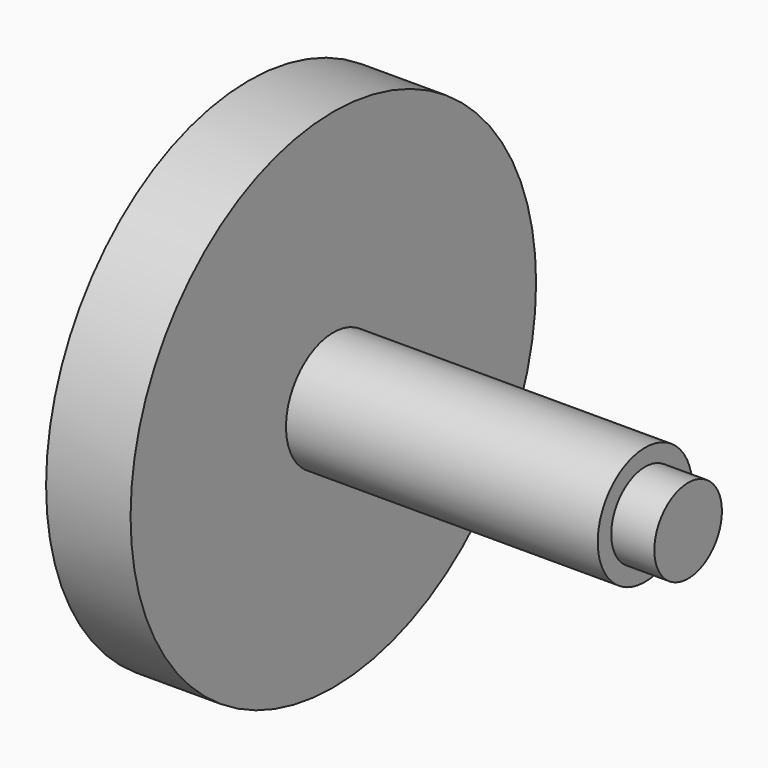
from build123d import *

# Parameters (mm, degrees)
F0_W   = 5
F0_H   = 11.5
F0_W_2 = 1.45
F0_H_2 = 1
F0_H_3 = 2.5
F0_W_3 = 2.55
F0_W_4 = 18.45


with BuildPart() as f1:
    # F0 (on Top) → F1 (revolve)
    with BuildSketch(Plane.XY):
        with Locations((-8.5, 9.25)):
            Rectangle(F0_W, F0_H)
        with Locations((-11.725, 3)):
            Rectangle(F0_W_2, F0_H_2)
        with Locations((-11.725, 1.25)):
            Rectangle(F0_W_2, F0_H_3)
        with Locations((-13.725, 1.25)):
            Rectangle(F0_W_3, F0_H_3)
        with Locations((-8.5, 1.25)):
            Rectangle(F0_W, F0_H_3)
        with Locations((-8.5, 3)):
            Rectangle(F0_W, F0_H_2)
        with Locations((3.225, 3)):
            Rectangle(F0_W_4, F0_H_2)
        with Locations((3.225, 1.25)):
            Rectangle(F0_W_4, F0_H_3)
        with Locations((13.725, 1.25)):
            Rectangle(F0_W_3, F0_H_3)
    revolve(axis=Axis((-19.1246615723, 0, 0), (1, 0, 0)))


solid = f1.part
